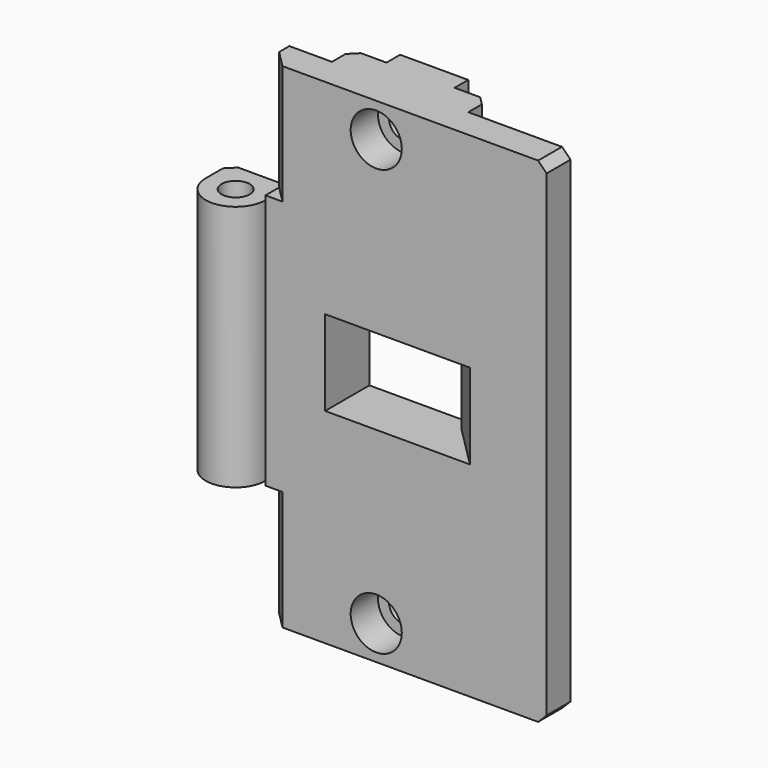
from build123d import *

# Parameters (mm, degrees)
CYLINDER046_R            = 3
CYLINDER046_DEPTH        = 4
CYLINDER045_R            = 3
CYLINDER045_DEPTH        = 4
CYLINDER044_R            = 1.7
CYLINDER044_DEPTH        = 19
CYLINDER043_R            = 1.7
CYLINDER043_DEPTH        = 19
BOX051039_W              = 12
BOX051039_H              = 10
BOX051039_DEPTH          = 10
BOX051035_W              = 33
BOX051035_H              = 3.5
BOX051035_DEPTH          = 14
CHAMFER034005002038_SIZE = 2
CYLINDER038_R            = 1.65
CYLINDER038_DEPTH        = 31
CYLINDER037_R            = 3.5
CYLINDER037_DEPTH        = 29
BOX051040_W              = 10
BOX051040_H              = 10
BOX051040_DEPTH          = 10
BOX051041_W              = 10
BOX051041_H              = 10
BOX051041_DEPTH          = 10
BOX051030_W              = 40
BOX051030_H              = 3.5
BOX051030_DEPTH          = 30
CHAMFER034005002040_SIZE = 1
BOX051032_W              = 8
BOX051032_H              = 2
BOX051032_DEPTH          = 8
BOX051033_W              = 8
BOX051033_H              = 2
BOX051033_DEPTH          = 8
BOX051031_W              = 16
BOX051031_H              = 3
BOX051031_DEPTH          = 58
BOX051034_W              = 33
BOX051034_H              = 3.5
BOX051034_DEPTH          = 14
CHAMFER034005002039_SIZE = 2
CHAMFER034005002041_SIZE = 5
CHAMFER034005002042_SIZE = 1
CHAMFER034005002049_SIZE = 1


with BuildPart() as cylinder046:
    # Cylinder046 → Cylinder046 (new body)
    with BuildSketch(Plane(origin=(20, -3, 4), x_dir=(1, 0, 0), z_dir=(0, 1, 0))):
        Circle(CYLINDER046_R)
    extrude(amount=CYLINDER046_DEPTH)


with BuildPart() as fusion021005009019:
    # Cylinder045 → Cylinder045 (new body)
    with BuildSketch(Plane(origin=(20, -3, 54), x_dir=(1, 0, 0), z_dir=(0, 1, 0))):
        Circle(CYLINDER045_R)
    extrude(amount=CYLINDER045_DEPTH)

    # Fusion021005009019: union Cylinder046
    add(cylinder046.part)


with BuildPart() as fusion021005009019_1:
    # Fusion021005009019 placement: moved
    add(fusion021005009019.part.moved(Location((0, 2.5, 0))))


with BuildPart() as cylinder044:
    # Cylinder044 → Cylinder044 (new body)
    with BuildSketch(Plane(origin=(20, -3, 54), x_dir=(1, 0, 0), z_dir=(0, 1, 0))):
        Circle(CYLINDER044_R)
    extrude(amount=CYLINDER044_DEPTH)


with BuildPart() as fusion021005009023:
    # Cylinder043 → Cylinder043 (new body)
    with BuildSketch(Plane(origin=(20, -3, 4), x_dir=(1, 0, 0), z_dir=(0, 1, 0))):
        Circle(CYLINDER043_R)
    extrude(amount=CYLINDER043_DEPTH)

    # Fusion021005009020: union Cylinder044
    add(cylinder044.part)

    # Fusion021005009023: union Fusion021005009019
    add(fusion021005009019_1.part)


with BuildPart() as cube096:
    # Box051039 → Box051039 (new body)
    with BuildSketch(Plane(origin=(14, -1, 24), x_dir=(1, 0, 0), z_dir=(0, 0, 1))):
        with Locations((6, 5)):
            Rectangle(BOX051039_W, BOX051039_H)
    extrude(amount=BOX051039_DEPTH)


with BuildPart() as chamfer034005002038:
    # Box051035 → Box051035 (new body)
    with BuildSketch(Plane(origin=(7, -0.5, 44), x_dir=(1, 0, 0), z_dir=(0, 0, 1))):
        with Locations((16.5, 1.75)):
            Rectangle(BOX051035_W, BOX051035_H)
    extrude(amount=BOX051035_DEPTH)

    # Chamfer034005002038
    chamfer034005002038_edges = [chamfer034005002038.edges().sort_by_distance(p)[0] for p in [
        (7, -0.5, 51),
    ]]
    chamfer(chamfer034005002038_edges, length=CHAMFER034005002038_SIZE)


with BuildPart() as cylinder038:
    # Cylinder038 → Cylinder038 (new body)
    with BuildSketch(Plane(origin=(3.5, -0.5, 13.5), x_dir=(1, 0, 0), z_dir=(0, 0, 1))):
        Circle(CYLINDER038_R)
    extrude(amount=CYLINDER038_DEPTH)


with BuildPart() as cylinder037:
    # Cylinder037 → Cylinder037 (new body)
    with BuildSketch(Plane(origin=(3.5, -0.5, 14.5), x_dir=(1, 0, 0), z_dir=(0, 0, 1))):
        Circle(CYLINDER037_R)
    extrude(amount=CYLINDER037_DEPTH)


with BuildPart() as cube097:
    # Box051040 → Box051040 (new body)
    with BuildSketch(Plane(origin=(-3, -2, 4.5), x_dir=(1, 0, 0), z_dir=(0, 0, 1))):
        with Locations((5, 5)):
            Rectangle(BOX051040_W, BOX051040_H)
    extrude(amount=BOX051040_DEPTH)


with BuildPart() as cube098:
    # Box051041 → Box051041 (new body)
    with BuildSketch(Plane(origin=(-3, -2, 43.5), x_dir=(1, 0, 0), z_dir=(0, 0, 1))):
        with Locations((5, 5)):
            Rectangle(BOX051041_W, BOX051041_H)
    extrude(amount=BOX051041_DEPTH)


with BuildPart() as chamfer034005002040:
    # Box051030 → Box051030 (new body)
    with BuildSketch(Plane(origin=(0, -0.5, 14), x_dir=(1, 0, 0), z_dir=(0, 0, 1))):
        with Locations((20, 1.75)):
            Rectangle(BOX051030_W, BOX051030_H)
    extrude(amount=BOX051030_DEPTH)

    # Cut018011002015: cut Cube098
    add(cube098.part, mode=Mode.SUBTRACT)

    # Cut018011002016: cut Cube097
    add(cube097.part, mode=Mode.SUBTRACT)

    # Fusion021005009021: union Cylinder037
    add(cylinder037.part)

    # Cut018011002017: cut Cylinder038
    add(cylinder038.part, mode=Mode.SUBTRACT)

    # Chamfer034005002040
    chamfer034005002040_edges = [chamfer034005002040.edges().sort_by_distance(p)[0] for p in [
        (0, 3, 29),
    ]]
    chamfer(chamfer034005002040_edges, length=CHAMFER034005002040_SIZE)


with BuildPart() as cube089:
    # Box051032 → Box051032 (new body)
    with BuildSketch(Plane(origin=(16, 6, 0), x_dir=(1, 0, 0), z_dir=(0, 0, 1))):
        with Locations((4, 1)):
            Rectangle(BOX051032_W, BOX051032_H)
    extrude(amount=BOX051032_DEPTH)


with BuildPart() as cube090:
    # Box051033 → Box051033 (new body)
    with BuildSketch(Plane(origin=(16, 6, 50), x_dir=(1, 0, 0), z_dir=(0, 0, 1))):
        with Locations((4, 1)):
            Rectangle(BOX051033_W, BOX051033_H)
    extrude(amount=BOX051033_DEPTH)


with BuildPart() as cube088:
    # Box051031 → Box051031 (new body)
    with BuildSketch(Plane(origin=(12, 3, 0), x_dir=(1, 0, 0), z_dir=(0, 0, 1))):
        with Locations((8, 1.5)):
            Rectangle(BOX051031_W, BOX051031_H)
    extrude(amount=BOX051031_DEPTH)


with BuildPart() as chamfer034005002049:
    # Box051034 → Box051034 (new body)
    with BuildSketch(Plane(origin=(7, -0.5, 0), x_dir=(1, 0, 0), z_dir=(0, 0, 1))):
        with Locations((16.5, 1.75)):
            Rectangle(BOX051034_W, BOX051034_H)
    extrude(amount=BOX051034_DEPTH)

    # Chamfer034005002039
    chamfer034005002039_edges = [chamfer034005002049.edges().sort_by_distance(p)[0] for p in [
        (7, -0.5, 7),
    ]]
    chamfer(chamfer034005002039_edges, length=CHAMFER034005002039_SIZE)

    # Fusion021005009022: union Chamfer034005002038, Chamfer034005002040, Cube089, Cube090, Cube088
    add(chamfer034005002038.part)
    add(chamfer034005002040.part)
    add(cube089.part)
    add(cube090.part)
    add(cube088.part)

    # Cut018011002018: cut Cube096
    add(cube096.part, mode=Mode.SUBTRACT)

    # Cut018011002019: cut Fusion021005009023
    add(fusion021005009023.part, mode=Mode.SUBTRACT)

    # Chamfer034005002041
    chamfer034005002041_edges = [chamfer034005002049.edges().sort_by_distance(p)[0] for p in [
        (26, -0.5, 29),
    ]]
    chamfer(chamfer034005002041_edges, length=CHAMFER034005002041_SIZE)

    # Chamfer034005002042
    chamfer034005002042_edges = [chamfer034005002049.edges().sort_by_distance(p)[0] for p in [
        (40, 1.25, 0),
        (40, 1.25, 58),
    ]]
    chamfer(chamfer034005002042_edges, length=CHAMFER034005002042_SIZE)

    # Chamfer034005002049
    chamfer034005002049_edges = [chamfer034005002049.edges().sort_by_distance(p)[0] for p in [
        (28, 6, 29),
        (12, 6, 29),
    ]]
    chamfer(chamfer034005002049_edges, length=CHAMFER034005002049_SIZE)


solid = chamfer034005002049.part
